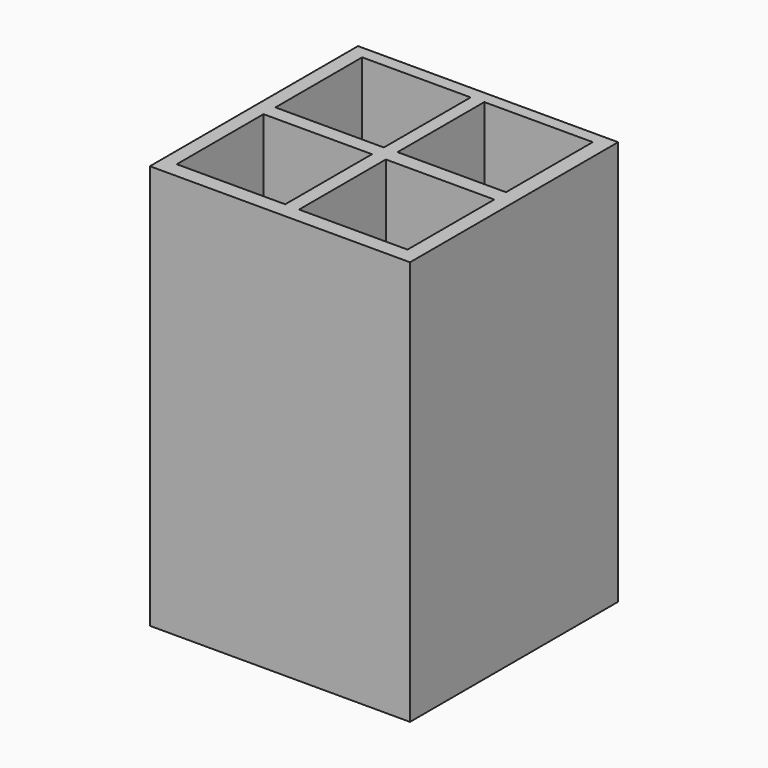
from build123d import *

# Parameters (mm, degrees)
F0_W     = 57.15
F0_H     = 57.15
F1_DEPTH = 88.9
F3_W     = 23.8252
F3_H     = 23.8252
F6_DEPTH = 85.725
F4_W     = 23.8252
F4_H     = 23.8252
F7_DEPTH = 85.725
F5_W     = 23.8252
F5_H     = 23.8252
F8_DEPTH = 85.725
F2_W     = 23.8252
F2_H     = 23.8252
F9_DEPTH = 85.725


with BuildPart() as f1:
    # F0 (on Top) → F1 (new body)
    with BuildSketch(Plane.XY):
        Rectangle(F0_W, F0_H)
    extrude(amount=F1_DEPTH)

    # F3 (on face) → F6 (cut)
    with BuildSketch(Plane.XY.offset(88.9)):
        with Locations((-13.490335, 13.846372)):
            Rectangle(F3_W, F3_H)
    extrude(amount=-F6_DEPTH, mode=Mode.SUBTRACT)

    # F4 (on face) → F7 (cut)
    with BuildSketch(Plane.XY.offset(88.9)):
        with Locations((13.252774, 13.959403)):
            Rectangle(F4_W, F4_H)
    extrude(amount=-F7_DEPTH, mode=Mode.SUBTRACT)

    # F5 (on face) → F8 (cut)
    with BuildSketch(Plane.XY.offset(88.9)):
        with Locations((13.383963, -13.245136)):
            Rectangle(F5_W, F5_H)
    extrude(amount=-F8_DEPTH, mode=Mode.SUBTRACT)

    # F2 (on face) → F9 (cut)
    with BuildSketch(Plane.XY.offset(88.9)):
        with Locations((-13.518683, -13.210509)):
            Rectangle(F2_W, F2_H)
    extrude(amount=-F9_DEPTH, mode=Mode.SUBTRACT)


solid = f1.part
